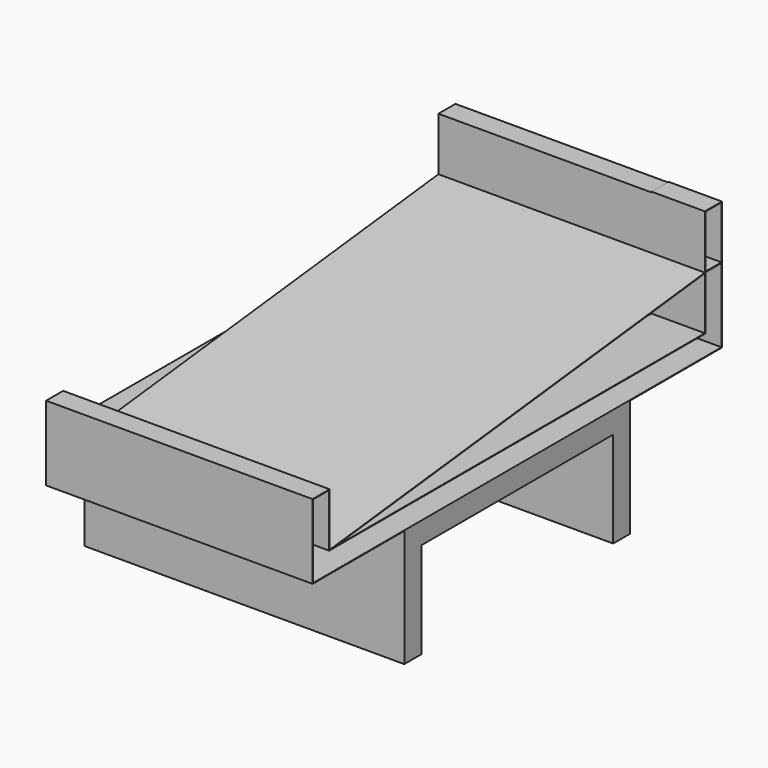
from build123d import *

# Parameters (mm, degrees)
F1_DEPTH = 15
F2_DEPTH = 10
F4_DEPTH = 5
F0_W     = 2
F0_H     = 5
F5_DEPTH = 10
F6_DEPTH = 10
F3_W     = 1.9
F3_H     = 4.95
F7_DEPTH = 5


with BuildPart() as f1:
    # F0 (on Right) → F1 (new body, symmetric)
    with BuildSketch(Plane.YZ):
        Polygon((-11.25, 4.5), (11.25, 4.5), (11.25, -4.5), (13.25, -4.5), (13.25, 6.5), (-13.25, 6.5), (-13.25, -4.5), (-11.25, -4.5), align=None)
    extrude(amount=F1_DEPTH, both=True)

    # F0 (on Right) → F2 (join, symmetric)
    with BuildSketch(Plane.YZ):
        Polygon((-13.25, 6.5), (13.25, 6.5), (24, 6.5), (24, 13.5), (22, 13.5), (22, 8.5), (-22, 8.5), (-22, 13.5), (-24, 13.5), (-24, 6.5), align=None)
    extrude(amount=F2_DEPTH, both=True)

    # F3 (on face) → F4 (join)
    with BuildSketch(Plane.YZ.offset(10)):
        Polygon((-22, 13.5), (-24, 13.5), (-24, 6.5), (-13.25, 6.5), (13.25, 6.5), (24, 6.5), (24, 13.5), (23.95, 13.5), (23.95, 6.55), (-23.95, 6.55), (-23.95, 13.45), (-22.05, 13.45), (-22.05, 8.45), (22.05, 8.45), (22.05, 13.5), (22, 13.5), (22, 13.4496782049), (22.0004976757, 13.449734759), (22, 8.5), (-21.5571682035, 8.5), (-22, 8.5), align=None)
    extrude(amount=F4_DEPTH)

    # F0 (on Right) → F5 (join, symmetric)
    with BuildSketch(Plane.YZ):
        with Locations((23, 16)):
            Rectangle(F0_W, F0_H)
    extrude(amount=F5_DEPTH, both=True)

    # F0 (on Right) → F6 (join, symmetric)
    with BuildSketch(Plane.YZ):
        Polygon((22, 8.5), (22, 13.5), (-22, 8.5), align=None)
    extrude(amount=F6_DEPTH, both=True)

    # F3 (on face) → F7 (join)
    with BuildSketch(Plane.YZ.offset(10)):
        Polygon((22, 18.5646470636), (22, 13.5), (22.05, 13.5), (23.95, 13.5), (24, 13.5), (24, 18.5646470636), align=None)
        with Locations((23, 16.0396470636)):
            Rectangle(F3_W, F3_H, mode=Mode.SUBTRACT)
        Polygon((22, 13.5), (-22, 8.5), (-21.5571682035, 8.5), (22, 13.4496782049), align=None)
    extrude(amount=F7_DEPTH)


solid = f1.part
